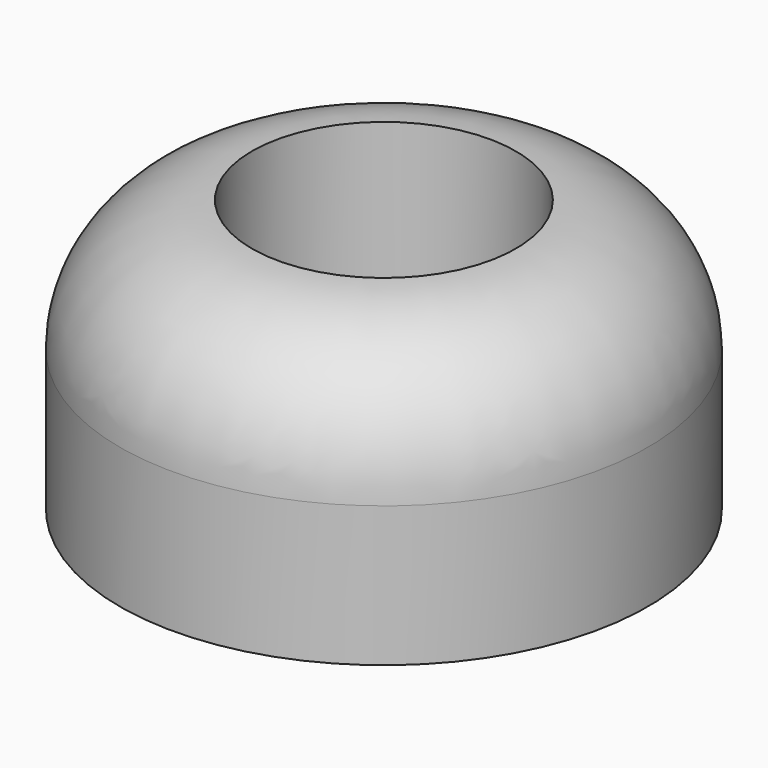
from build123d import *

# Parameters (mm, degrees)
F2_R     = 1.5
F3_DEPTH = 10


with BuildPart() as f1:
    # F0 (on Front) → F1 (revolve)
    with BuildSketch(Plane.XZ):
        with BuildLine():
            Line((0, -3), (0, 0))
            Line((0, 0), (-4, 0))
            Line((-4, 0), (-4, 5.25))
            ThreePointArc((-4, 5.25), (-6.828427, 4.078427), (-8, 1.25))
            Line((-8, 1.25), (-8, -3))
            Line((-8, -3), (0, -3))
        make_face()
    revolve(axis=Axis((0, 0, -5.328211), (0, 0, -1)))

    # F2 (on face) → F3 (cut)
    with BuildSketch(Plane.XY):
        Circle(F2_R)
    extrude(amount=-F3_DEPTH, mode=Mode.SUBTRACT)


solid = f1.part
